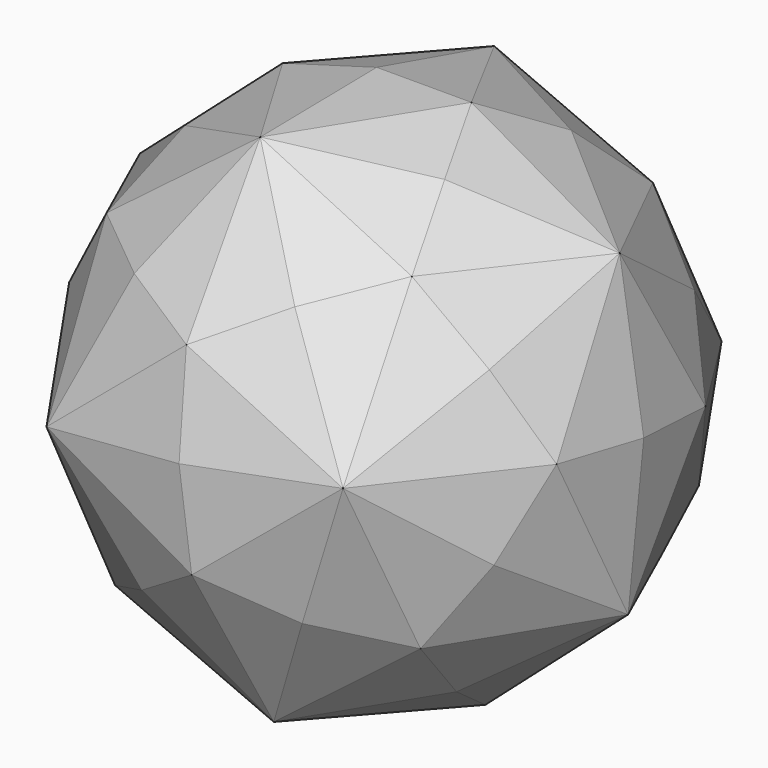
from build123d import *

# Parameters (mm, degrees)
F1_DEPTH = 101.6
F1_TAPER = 7.556054046


with BuildPart() as f1:
    # F0 (on Top) → F1 (new body)
    with BuildSketch(Plane.XY):
        Polygon((0, 0), (-0.9788434916, 55.6218195157), (-35.4148902231, 0), align=None)
    extrude(amount=F1_DEPTH, taper=F1_TAPER)

    # F2: F1 across face


with BuildPart() as f1_1:
    add(f1.part)
    add(f1.part.mirror(Plane(origin=(-16.4023206536, 22.737179725, 31.6369417684), x_dir=(-0.5263932023, -0.8502412579, 0), z_dir=(-0.8428583491, 0.5218223667, 0.1314960875))))

    # F3: F1 across face


with BuildPart() as f1_2:
    add(f1_1.part)
    add(f1_1.part.mirror(Plane(origin=(-4.5973572795, 22.7371792838, 31.6369418981), x_dir=(-0.0175954682, 0.9998451878, 0), z_dir=(0.9911632216, 0.0174426813, 0.1314960875))))

    # F4: F1 across face


with BuildPart() as f1_3:
    add(f1_2.part)
    add(f1_2.part.mirror(Plane(origin=(10.5439699338, 33.6829824787, 38.4876798223), x_dir=(-0.9642022, 0.2651680929, 0), z_dir=(0.2399623244, 0.8725491765, 0.425530278))))

    # F5: F1 across face


with BuildPart() as f1_4:
    add(f1_3.part)
    add(f1_3.part.mirror(Plane(origin=(-21.3700903424, 33.1213526999, 34.2536909371), x_dir=(-0.9178751297, -0.3968693062, 0), z_dir=(-0.3726102349, 0.8617690066, 0.3442612266))))

    # F6: F1 across face


with BuildPart() as f1_5:
    add(f1_4.part)
    add(f1_4.part.mirror(Plane(origin=(-16.0760387074, 4.1965743618, 31.6369428308), x_dir=(1, 0, 0), z_dir=(0, -0.9913166895, 0.1314960875))))

    # F7: F1 across face


with BuildPart() as f1_6:
    add(f1_5.part)
    add(f1_5.part.mirror(Plane(origin=(22.2597853072, -4.1764689394, 44.1816075195), x_dir=(-0.5858563278, 0.8104149327, 0), z_dir=(0.7608774319, 0.5500452178, 0.3442612266))))

    # F8: F1 across face


with BuildPart() as f1_7:
    add(f1_6.part)
    add(f1_6.part.mirror(Plane(origin=(35.6016618602, 44.3371609674, 67.8410401107), x_dir=(-0.9178751298, -0.3968693062, 0), z_dir=(-0.3726102349, 0.8617690066, 0.3442612266))))

    # F9: F1 across face


with BuildPart() as f1_8:
    add(f1_7.part)
    add(f1_7.part.mirror(Plane(origin=(-53.5658558506, 42.7679738217, 56.0113238164), x_dir=(0.9642022, -0.265168093, 0), z_dir=(-0.2399623245, -0.8725491764, -0.425530278))))

    # F10: F1 across face


with BuildPart() as f1_9:
    add(f1_8.part)
    add(f1_8.part.mirror(Plane(origin=(-67.6744000884, -17.254319617, 81.3366041914), x_dir=(0.950172763, 0.3117237888, 0), z_dir=(0.2399623244, -0.7314349209, 0.638295417))))

    # F11: F1 across face


with BuildPart() as f1_10:
    add(f1_9.part)
    add(f1_9.part.mirror(Plane(origin=(-47.8862406141, 9.6288854157, 148.2567814243), x_dir=(-0.5016862394, -0.8650496617, 0), z_dir=(-0.7608774318, 0.4412714719, -0.4757573141))))

    # F12: F1 across face


with BuildPart() as f1_11:
    add(f1_10.part)
    add(f1_10.part.mirror(Plane(origin=(11.1666679236, 62.2499398733, 127.2140978003), x_dir=(0.3283942647, -0.9445407386, 0), z_dir=(-0.6028960247, -0.2096125541, 0.7697915046))))


solid = f1_11.part
